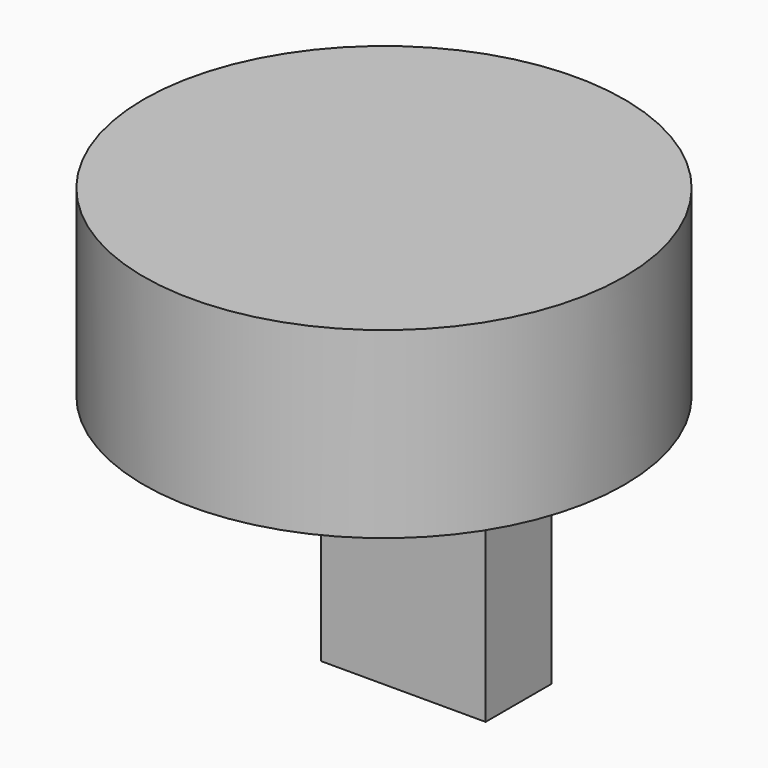
from build123d import *

# Parameters (mm, degrees)
F0_R     = 102.330588
F1_DEPTH = 78
F2_W     = 70.131618
F2_H     = 83.526733
F3_DEPTH = 35


with BuildPart() as f1:
    # F0 (on Top) → F1 (new body)
    with BuildSketch(Plane.XY):
        with Locations((-1.965719, 1.297876)):
            Circle(F0_R)
    extrude(amount=F1_DEPTH)


with BuildPart() as f3:
    # F2 (on Front) → F3 (new body)
    with BuildSketch(Plane.XZ):
        with Locations((35.274862, -42.122594)):
            Rectangle(F2_W, F2_H)
    extrude(amount=F3_DEPTH)


solid = Compound([f1.part, f3.part])
